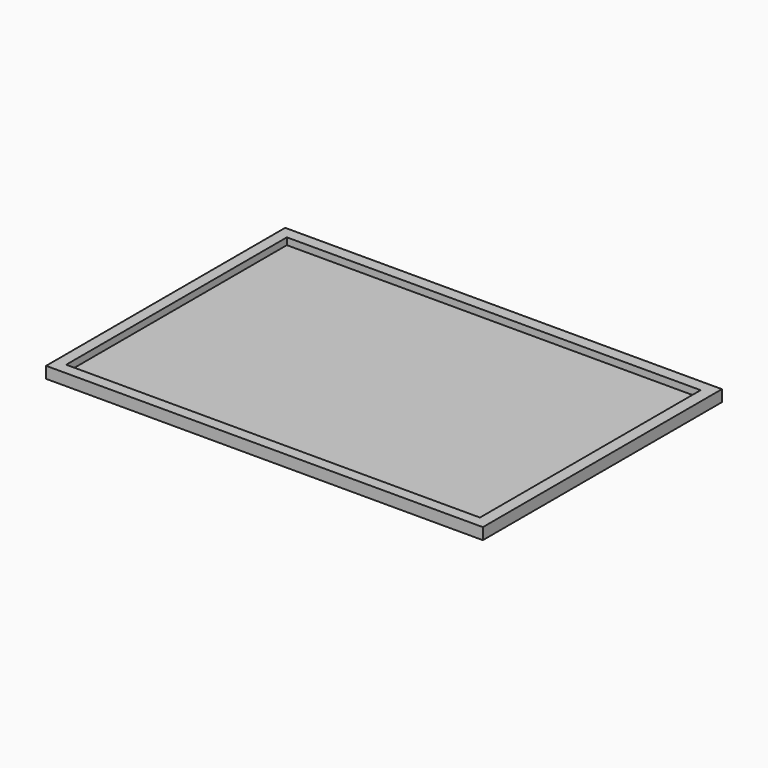
from build123d import *

# Parameters (mm, degrees)
SKETCH_W     = 160
SKETCH_H     = 100
PAD_DEPTH    = 2
SKETCH001_W  = 180
SKETCH001_H  = 120
PAD001_DEPTH = 5
SKETCH006_W  = 190
SKETCH006_H  = 130
PAD006_DEPTH = 5


with BuildPart() as pcb:
    # Sketch → Pad (new body)
    with BuildSketch(Plane(origin=(-1, 1, 3), x_dir=(1, 0, 0), z_dir=(0, 0, 1))):
        with Locations((11.269221, -1.548084)):
            Rectangle(SKETCH_W, SKETCH_H)
    extrude(amount=PAD_DEPTH)


with BuildPart() as portapcb001:
    # Sketch001 → Pad001 (new body)
    with BuildSketch(Plane.XY):
        with Locations((9.825213, -0.104076)):
            Rectangle(SKETCH001_W, SKETCH001_H)
    extrude(amount=PAD001_DEPTH)

    # Cut001: cut PCB
    add(pcb.part, mode=Mode.SUBTRACT)


with BuildPart() as base:
    # Sketch006 → Pad006 (new body)
    with BuildSketch(Plane.XY.offset(-2)):
        with Locations((10, 0)):
            Rectangle(SKETCH006_W, SKETCH006_H)
    extrude(amount=PAD006_DEPTH)

    # Cut002: cut PortaPCB001
    add(portapcb001.part, mode=Mode.SUBTRACT)


solid = base.part
